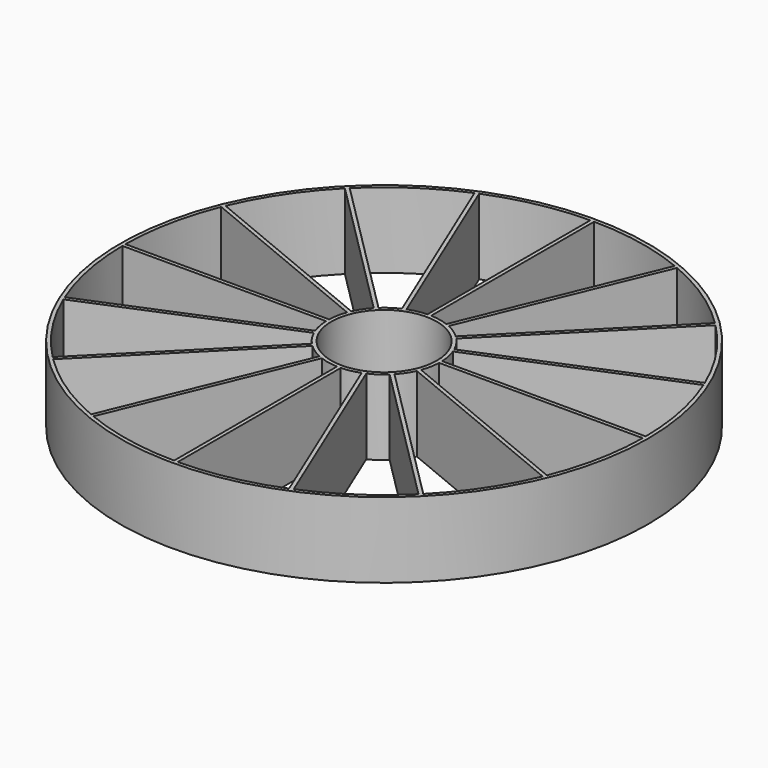
from build123d import *

# Parameters (mm, degrees)
F0_R     = 44.45
F0_R_2   = 8.89
F1_DEPTH = 12.7


with BuildPart() as f1:
    # F0 (on Top) → F1 (new body)
    with BuildSketch(Plane.XY):
        Circle(F0_R)
        with BuildLine():
            Line((-30.756564, -31.205577), (-6.506943, -6.955956))
            ThreePointArc((-6.506943, -6.955956), (-5.291806, -7.919748), (-3.936366, -8.67356))
            Line((-3.936366, -8.67356), (-17.060166, -40.357217))
            ThreePointArc((-17.060166, -40.357217), (-24.34231, -36.430841), (-30.756564, -31.205577))
        make_face(mode=Mode.SUBTRACT)
        with BuildLine():
            Line((-16.473503, -40.600221), (-3.349702, -8.916564))
            ThreePointArc((-3.349702, -8.916564), (-1.858235, -9.34198), (-0.3175, -9.519707))
            Line((-0.3175, -9.519707), (-0.3175, -43.81385))
            ThreePointArc((-0.3175, -43.81385), (-8.547882, -42.973107), (-16.473503, -40.600221))
        make_face(mode=Mode.SUBTRACT)
        with BuildLine():
            Line((-40.357217, -17.060166), (-8.67356, -3.936366))
            ThreePointArc((-8.67356, -3.936366), (-7.919748, -5.291806), (-6.955956, -6.506943))
            Line((-6.955956, -6.506943), (-31.205577, -30.756564))
            ThreePointArc((-31.205577, -30.756564), (-36.430841, -24.34231), (-40.357217, -17.060166))
        make_face(mode=Mode.SUBTRACT)
        with BuildLine():
            ThreePointArc((-40.600221, -16.473503), (-42.973107, -8.547882), (-43.81385, -0.3175))
            Line((-43.81385, -0.3175), (-9.519707, -0.3175))
            ThreePointArc((-9.519707, -0.3175), (-9.34198, -1.858235), (-8.916564, -3.349702))
            Line((-8.916564, -3.349702), (-40.600221, -16.473503))
        make_face(mode=Mode.SUBTRACT)
        with BuildLine():
            ThreePointArc((0.3175, -9.519707), (1.858235, -9.34198), (3.349702, -8.916564))
            Line((3.349702, -8.916564), (16.473503, -40.600221))
            ThreePointArc((16.473503, -40.600221), (8.547882, -42.973107), (0.3175, -43.81385))
            Line((0.3175, -43.81385), (0.3175, -9.519707))
        make_face(mode=Mode.SUBTRACT)
        with BuildLine():
            ThreePointArc((3.936366, -8.67356), (5.291806, -7.919748), (6.506943, -6.955956))
            Line((6.506943, -6.955956), (30.756564, -31.205577))
            ThreePointArc((30.756564, -31.205577), (24.34231, -36.430841), (17.060166, -40.357217))
            Line((17.060166, -40.357217), (3.936366, -8.67356))
        make_face(mode=Mode.SUBTRACT)
        with BuildLine():
            ThreePointArc((6.955956, -6.506943), (7.919748, -5.291806), (8.67356, -3.936366))
            Line((8.67356, -3.936366), (40.357217, -17.060166))
            ThreePointArc((40.357217, -17.060166), (36.430841, -24.34231), (31.205577, -30.756564))
            Line((31.205577, -30.756564), (6.955956, -6.506943))
        make_face(mode=Mode.SUBTRACT)
        with BuildLine():
            ThreePointArc((8.916564, -3.349702), (9.34198, -1.858235), (9.519707, -0.3175))
            Line((9.519707, -0.3175), (43.81385, -0.3175))
            ThreePointArc((43.81385, -0.3175), (42.973107, -8.547882), (40.600221, -16.473503))
            Line((40.600221, -16.473503), (8.916564, -3.349702))
        make_face(mode=Mode.SUBTRACT)
        with BuildLine():
            Line((-40.600221, 16.473503), (-8.916564, 3.349702))
            ThreePointArc((-8.916564, 3.349702), (-9.34198, 1.858235), (-9.519707, 0.3175))
            Line((-9.519707, 0.3175), (-43.81385, 0.3175))
            ThreePointArc((-43.81385, 0.3175), (-42.973107, 8.547882), (-40.600221, 16.473503))
        make_face(mode=Mode.SUBTRACT)
        with BuildLine():
            Line((-31.205577, 30.756564), (-6.955956, 6.506943))
            ThreePointArc((-6.955956, 6.506943), (-7.919748, 5.291806), (-8.67356, 3.936366))
            Line((-8.67356, 3.936366), (-40.357217, 17.060166))
            ThreePointArc((-40.357217, 17.060166), (-36.430841, 24.34231), (-31.205577, 30.756564))
        make_face(mode=Mode.SUBTRACT)
        with BuildLine():
            Line((-17.060166, 40.357217), (-3.936366, 8.67356))
            ThreePointArc((-3.936366, 8.67356), (-5.291806, 7.919748), (-6.506943, 6.955956))
            Line((-6.506943, 6.955956), (-30.756564, 31.205577))
            ThreePointArc((-30.756564, 31.205577), (-24.34231, 36.430841), (-17.060166, 40.357217))
        make_face(mode=Mode.SUBTRACT)
        with BuildLine():
            ThreePointArc((-16.473503, 40.600221), (-8.547882, 42.973107), (-0.3175, 43.81385))
            Line((-0.3175, 43.81385), (-0.3175, 9.519707))
            ThreePointArc((-0.3175, 9.519707), (-1.858235, 9.34198), (-3.349702, 8.916564))
            Line((-3.349702, 8.916564), (-16.473503, 40.600221))
        make_face(mode=Mode.SUBTRACT)
        Circle(F0_R_2, mode=Mode.SUBTRACT)
        with BuildLine():
            Line((43.81385, 0.3175), (9.519707, 0.3175))
            ThreePointArc((9.519707, 0.3175), (9.34198, 1.858235), (8.916564, 3.349702))
            Line((8.916564, 3.349702), (40.600221, 16.473503))
            ThreePointArc((40.600221, 16.473503), (42.973107, 8.547882), (43.81385, 0.3175))
        make_face(mode=Mode.SUBTRACT)
        with BuildLine():
            Line((40.357217, 17.060166), (8.67356, 3.936366))
            ThreePointArc((8.67356, 3.936366), (7.919748, 5.291806), (6.955956, 6.506943))
            Line((6.955956, 6.506943), (31.205577, 30.756564))
            ThreePointArc((31.205577, 30.756564), (36.430841, 24.34231), (40.357217, 17.060166))
        make_face(mode=Mode.SUBTRACT)
        with BuildLine():
            Line((16.473503, 40.600221), (3.349702, 8.916564))
            ThreePointArc((3.349702, 8.916564), (1.858235, 9.34198), (0.3175, 9.519707))
            Line((0.3175, 9.519707), (0.3175, 43.81385))
            ThreePointArc((0.3175, 43.81385), (8.547882, 42.973107), (16.473503, 40.600221))
        make_face(mode=Mode.SUBTRACT)
        with BuildLine():
            Line((30.756564, 31.205577), (6.506943, 6.955956))
            ThreePointArc((6.506943, 6.955956), (5.291806, 7.919748), (3.936366, 8.67356))
            Line((3.936366, 8.67356), (17.060166, 40.357217))
            ThreePointArc((17.060166, 40.357217), (24.34231, 36.430841), (30.756564, 31.205577))
        make_face(mode=Mode.SUBTRACT)
    extrude(amount=F1_DEPTH)


solid = f1.part
